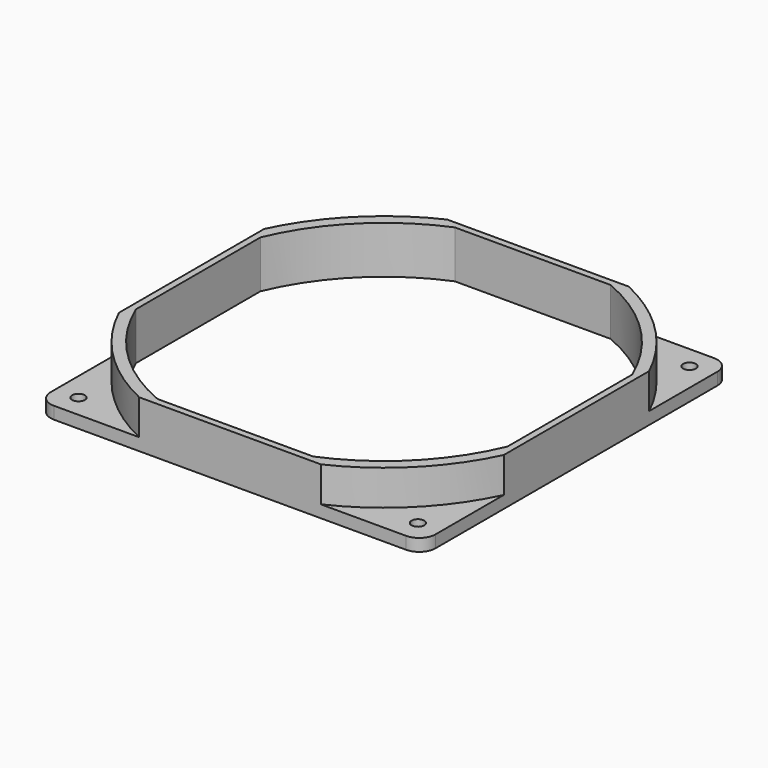
from build123d import *

# Parameters (mm, degrees)
F0_R     = 1.984375
F1_DEPTH = 3.81
F3_DEPTH = 10.922


with BuildPart() as f1:
    # F0 (on Top) → F1 (new body)
    with BuildSketch(Plane.XY):
        with BuildLine():
            Line((-59.7281, 54.6481), (-59.7281, 0))
            Line((-59.7281, 0), (-59.7281, -54.6481))
            ThreePointArc((-59.7281, -54.6481), (-58.240202, -58.240202), (-54.6481, -59.7281))
            Line((-54.6481, -59.7281), (0, -59.7281))
            Line((0, -59.7281), (54.6481, -59.7281))
            ThreePointArc((54.6481, -59.7281), (58.240202, -58.240202), (59.7281, -54.6481))
            Line((59.7281, -54.6481), (59.7281, 0))
            Line((59.7281, 0), (59.7281, 54.6481))
            ThreePointArc((59.7281, 54.6481), (58.240202, 58.240202), (54.6481, 59.7281))
            Line((54.6481, 59.7281), (0, 59.7281))
            Line((0, 59.7281), (-54.6481, 59.7281))
            ThreePointArc((-54.6481, 59.7281), (-58.240202, 58.240202), (-59.7281, 54.6481))
        make_face()
        with Locations((-52.663725, -52.663725)):
            Circle(F0_R, mode=Mode.SUBTRACT)
        with Locations((52.663725, -52.663725)):
            Circle(F0_R, mode=Mode.SUBTRACT)
        with Locations((-52.663725, 52.663725)):
            Circle(F0_R, mode=Mode.SUBTRACT)
        with BuildLine():
            Line((-57.658, -24.144981), (-57.658, 0))
            Line((-57.658, 0), (-57.658, 24.144981))
            Line((-57.658, 24.144981), (-57.658, 44.292091))
            ThreePointArc((-57.658, 44.292091), (-56.914051, 46.088142), (-55.118, 46.832091))
            Line((-55.118, 46.832091), (-49.372091, 46.832091))
            ThreePointArc((-49.372091, 46.832091), (-47.57604, 47.57604), (-46.832091, 49.372091))
            Line((-46.832091, 49.372091), (-46.832091, 55.118))
            ThreePointArc((-46.832091, 55.118), (-46.088142, 56.914051), (-44.292091, 57.658))
            Line((-44.292091, 57.658), (-24.144981, 57.658))
            Line((-24.144981, 57.658), (0, 57.658))
            Line((0, 57.658), (24.144981, 57.658))
            Line((24.144981, 57.658), (44.292091, 57.658))
            ThreePointArc((44.292091, 57.658), (46.088142, 56.914051), (46.832091, 55.118))
            Line((46.832091, 55.118), (46.832091, 49.372091))
            ThreePointArc((46.832091, 49.372091), (47.57604, 47.57604), (49.372091, 46.832091))
            Line((49.372091, 46.832091), (55.118, 46.832091))
            ThreePointArc((55.118, 46.832091), (56.914051, 46.088142), (57.658, 44.292091))
            Line((57.658, 44.292091), (57.658, 24.144981))
            Line((57.658, 24.144981), (57.658, 0))
            Line((57.658, 0), (57.658, -24.144981))
            Line((57.658, -24.144981), (57.658, -44.292091))
            ThreePointArc((57.658, -44.292091), (56.914051, -46.088142), (55.118, -46.832091))
            Line((55.118, -46.832091), (49.372091, -46.832091))
            ThreePointArc((49.372091, -46.832091), (47.57604, -47.57604), (46.832091, -49.372091))
            Line((46.832091, -49.372091), (46.832091, -55.118))
            ThreePointArc((46.832091, -55.118), (46.088142, -56.914051), (44.292091, -57.658))
            Line((44.292091, -57.658), (24.144981, -57.658))
            Line((24.144981, -57.658), (0, -57.658))
            Line((0, -57.658), (-24.144981, -57.658))
            Line((-24.144981, -57.658), (-44.292091, -57.658))
            ThreePointArc((-44.292091, -57.658), (-46.088142, -56.914051), (-46.832091, -55.118))
            Line((-46.832091, -55.118), (-46.832091, -49.372091))
            ThreePointArc((-46.832091, -49.372091), (-47.57604, -47.57604), (-49.372091, -46.832091))
            Line((-49.372091, -46.832091), (-55.118, -46.832091))
            ThreePointArc((-55.118, -46.832091), (-56.914051, -46.088142), (-57.658, -44.292091))
            Line((-57.658, -44.292091), (-57.658, -24.144981))
        make_face(mode=Mode.SUBTRACT)
        with Locations((52.663725, 52.663725)):
            Circle(F0_R, mode=Mode.SUBTRACT)
        with BuildLine():
            Line((-57.658, 44.292091), (-57.658, 24.144981))
            ThreePointArc((-57.658, 24.144981), (-44.200821, 44.200821), (-24.144981, 57.658))
            Line((-24.144981, 57.658), (-44.292091, 57.658))
            ThreePointArc((-44.292091, 57.658), (-46.088142, 56.914051), (-46.832091, 55.118))
            Line((-46.832091, 55.118), (-46.832091, 49.372091))
            ThreePointArc((-46.832091, 49.372091), (-47.57604, 47.57604), (-49.372091, 46.832091))
            Line((-49.372091, 46.832091), (-55.118, 46.832091))
            ThreePointArc((-55.118, 46.832091), (-56.914051, 46.088142), (-57.658, 44.292091))
        make_face()
        with BuildLine():
            ThreePointArc((-24.144981, -57.658), (-44.200821, -44.200821), (-57.658, -24.144981))
            Line((-57.658, -24.144981), (-57.658, -44.292091))
            ThreePointArc((-57.658, -44.292091), (-56.914051, -46.088142), (-55.118, -46.832091))
            Line((-55.118, -46.832091), (-49.372091, -46.832091))
            ThreePointArc((-49.372091, -46.832091), (-47.57604, -47.57604), (-46.832091, -49.372091))
            Line((-46.832091, -49.372091), (-46.832091, -55.118))
            ThreePointArc((-46.832091, -55.118), (-46.088142, -56.914051), (-44.292091, -57.658))
            Line((-44.292091, -57.658), (-24.144981, -57.658))
        make_face()
        with BuildLine():
            ThreePointArc((57.658, -24.144981), (44.200821, -44.200821), (24.144981, -57.658))
            Line((24.144981, -57.658), (44.292091, -57.658))
            ThreePointArc((44.292091, -57.658), (46.088142, -56.914051), (46.832091, -55.118))
            Line((46.832091, -55.118), (46.832091, -49.372091))
            ThreePointArc((46.832091, -49.372091), (47.57604, -47.57604), (49.372091, -46.832091))
            Line((49.372091, -46.832091), (55.118, -46.832091))
            ThreePointArc((55.118, -46.832091), (56.914051, -46.088142), (57.658, -44.292091))
            Line((57.658, -44.292091), (57.658, -24.144981))
        make_face()
        with BuildLine():
            Line((44.292091, 57.658), (24.144981, 57.658))
            ThreePointArc((24.144981, 57.658), (44.200821, 44.200821), (57.658, 24.144981))
            Line((57.658, 24.144981), (57.658, 44.292091))
            ThreePointArc((57.658, 44.292091), (56.914051, 46.088142), (55.118, 46.832091))
            Line((55.118, 46.832091), (49.372091, 46.832091))
            ThreePointArc((49.372091, 46.832091), (47.57604, 47.57604), (46.832091, 49.372091))
            Line((46.832091, 49.372091), (46.832091, 55.118))
            ThreePointArc((46.832091, 55.118), (46.088142, 56.914051), (44.292091, 57.658))
        make_face()
    extrude(amount=F1_DEPTH)

    # F2 (on face) → F3 (join)
    with BuildSketch(Plane.XY.offset(3.81)):
        with BuildLine():
            ThreePointArc((-28.17509, 59.7281), (-46.697332, 46.697332), (-59.7281, 28.17509))
            Line((-59.7281, 28.17509), (-59.7281, 0))
            Line((-59.7281, 0), (-59.7281, -28.17509))
            ThreePointArc((-59.7281, -28.17509), (-46.697332, -46.697332), (-28.17509, -59.7281))
            Line((-28.17509, -59.7281), (0, -59.7281))
            Line((0, -59.7281), (28.17509, -59.7281))
            ThreePointArc((28.17509, -59.7281), (46.697332, -46.697332), (59.7281, -28.17509))
            Line((59.7281, -28.17509), (59.7281, 0))
            Line((59.7281, 0), (59.7281, 28.17509))
            ThreePointArc((59.7281, 28.17509), (46.697332, 46.697332), (28.17509, 59.7281))
            Line((28.17509, 59.7281), (0, 59.7281))
            Line((0, 59.7281), (-28.17509, 59.7281))
        make_face()
        with BuildLine():
            Line((-57.658, 0), (-57.658, 24.144981))
            ThreePointArc((-57.658, 24.144981), (-44.200821, 44.200821), (-24.144981, 57.658))
            Line((-24.144981, 57.658), (0, 57.658))
            Line((0, 57.658), (24.144981, 57.658))
            ThreePointArc((24.144981, 57.658), (44.200821, 44.200821), (57.658, 24.144981))
            Line((57.658, 24.144981), (57.658, 0))
            Line((57.658, 0), (57.658, -24.144981))
            ThreePointArc((57.658, -24.144981), (44.200821, -44.200821), (24.144981, -57.658))
            Line((24.144981, -57.658), (0, -57.658))
            Line((0, -57.658), (-24.144981, -57.658))
            ThreePointArc((-24.144981, -57.658), (-44.200821, -44.200821), (-57.658, -24.144981))
            Line((-57.658, -24.144981), (-57.658, 0))
        make_face(mode=Mode.SUBTRACT)
    extrude(amount=F3_DEPTH)


solid = f1.part
